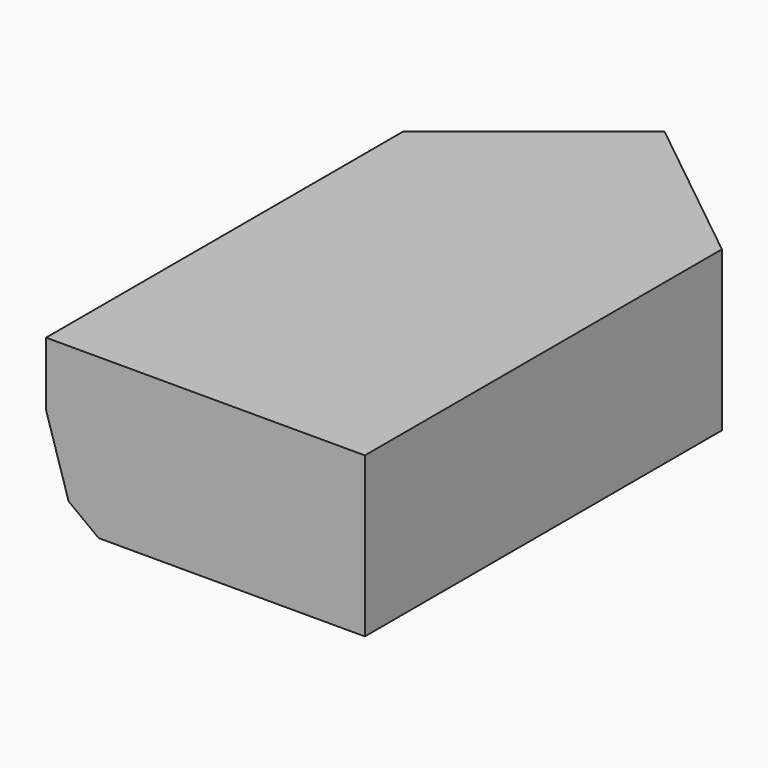
from build123d import *

# Parameters (mm, degrees)
F1_DEPTH = 50
F3_DEPTH = 180


with BuildPart() as f1:
    # F0 (on Top) → F1 (new body)
    with BuildSketch(Plane.XY):
        Polygon((-50, -70), (50, -70), (50, 70), (0, 110), (-50, 70), align=None)
    extrude(amount=F1_DEPTH)

    # F2 (on face) → F3 (cut)
    with BuildSketch(Plane.XZ.offset(70)):
        Polygon((-50, 0), (-33.5, 0), (-42.928932, 7.071068), (-50, 30), align=None)
    extrude(amount=-F3_DEPTH, mode=Mode.SUBTRACT)


solid = f1.part
